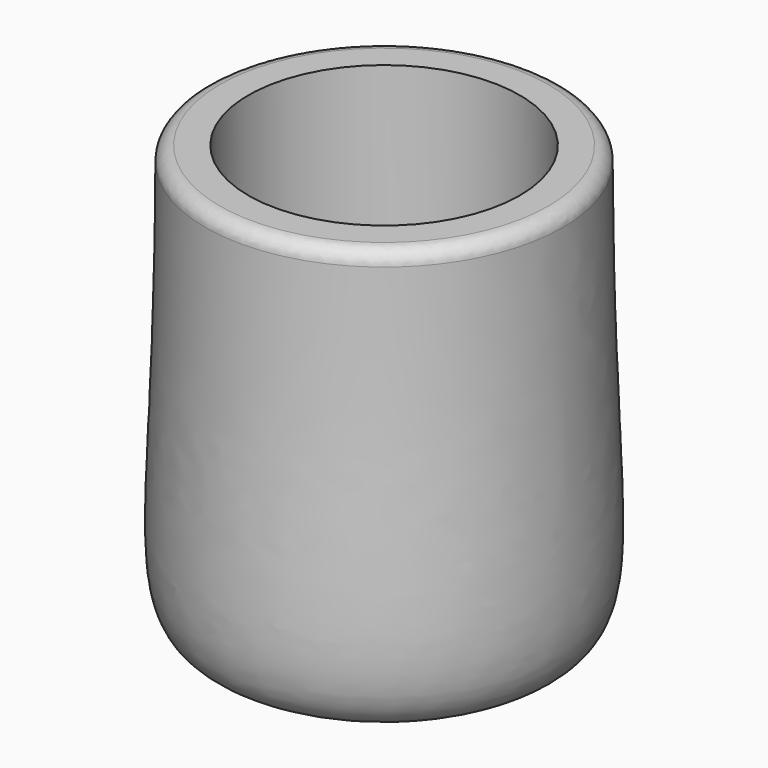
from build123d import *

# Parameters (mm, degrees)
F2_R = 1


with BuildPart() as f1:
    # F0 (on Front) → F1 (revolve)
    with BuildSketch(Plane.XZ):
        with BuildLine():
            Line((9.5, 0), (0, 0))
            Line((0, 0), (0, -3))
            add(Edge.make_bspline(
                [(0, -3), (9.6000218764, -3), (14.6399733982, -1.2402557723), (12.5, 10.1953176782), (12.5, 28)],
                knots=[0, 0, 0, 0, 0.4039008981, 1, 1, 1, 1], degree=3))
            Line((12.5, 28), (9.5, 28))
            Line((9.5, 28), (9.5, 0))
        make_face()
    revolve(axis=Axis((0, 0, -1.5), (0, 0, -1)))

    # F2
    f2_edges = [f1.edges().sort_by_distance(p)[0] for p in [
        (-12.5, 0, 28),
    ]]
    fillet(f2_edges, radius=F2_R)


solid = f1.part
